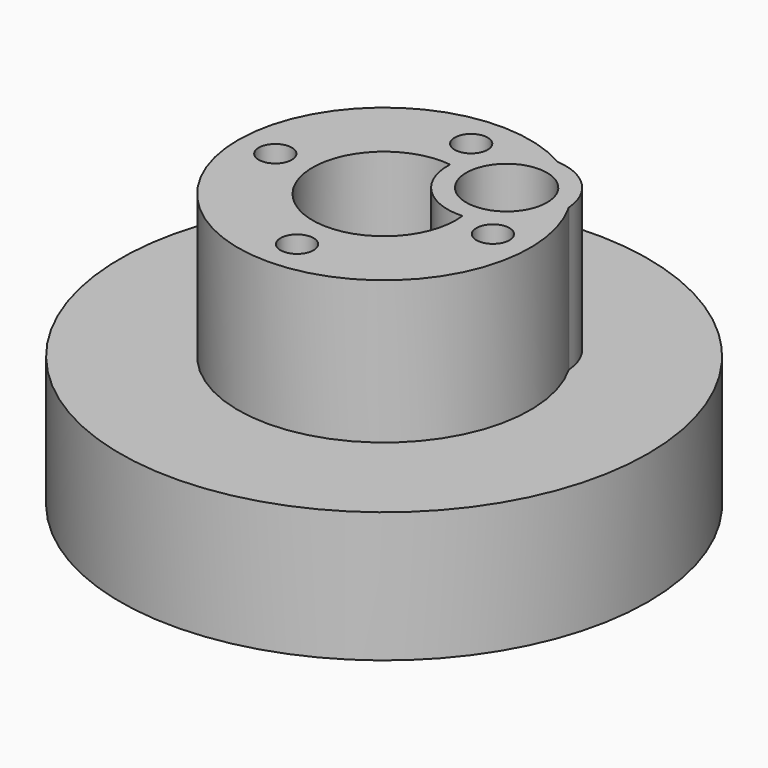
from build123d import *

# Parameters (mm, degrees)
F0_R      = 53.975
F1_DEPTH  = 19.05
F2_R      = 29.87
F2_R_2    = 14.63
F3_DEPTH  = 29.21
F5_D      = 6.7564
F6_R      = 53.975
F6_R_2    = 37.846
F7_DEPTH  = 7.62
F8_R      = 12.065
F9_DEPTH  = 29.21
F10_R     = 8.255
F11_DEPTH = 55.881


with BuildPart() as f1:
    # F0 (on Top) → F1 (new body)
    with BuildSketch(Plane.XY):
        Circle(F0_R)
    extrude(amount=F1_DEPTH)

    # F2 (on face) → F3 (join)
    with BuildSketch(Plane.XY.offset(19.05)):
        Circle(F2_R)
        Circle(F2_R_2, mode=Mode.SUBTRACT)
    extrude(amount=F3_DEPTH)

    # F5 (through all)
    with Locations(Plane.XY.offset(48.26)):
        with Locations((0, -22.25), (-22.25, 0), (0, 22.25), (22.25, 0)):
            Hole(F5_D / 2)

    # F6 (on face) → F7 (join)
    with BuildSketch(Plane(origin=(0, 0, 0), x_dir=(1, 0, 0), z_dir=(0, 0, -1))):
        Circle(F6_R)
        Circle(F6_R_2, mode=Mode.SUBTRACT)
    extrude(amount=F7_DEPTH)

    # F8 (on face) → F9 (join, through all)
    with BuildSketch(Plane.XY.offset(19.05)):
        with Locations((13.9193969877, 13.9193969877)):
            Circle(F8_R)
    extrude(amount=F9_DEPTH)

    # F10 (on face) → F11 (cut, through all)
    with BuildSketch(Plane.XY.offset(48.26)):
        with Locations((13.9193969877, 13.9193969877)):
            Circle(F10_R)
    extrude(amount=-F11_DEPTH, mode=Mode.SUBTRACT)


solid = f1.part
